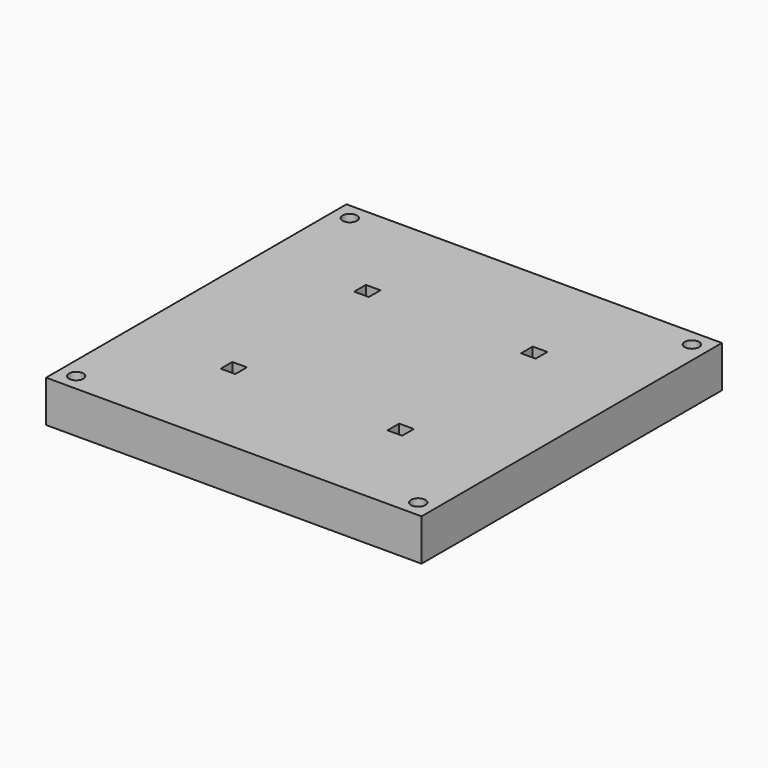
from build123d import *

# Parameters (mm, degrees)
F0_R     = 1.725
F0_W     = 3.5
F0_H     = 3.5
F1_DEPTH = 10


with BuildPart() as f1:
    # F0 (on Top) → F1 (new body)
    with BuildSketch(Plane.XY):
        Polygon((45, -45), (45, 0), (45, 45), (0, 45), (-45, 45), (-45, 0), (-45, -45), (0, -45), align=None)
        with Locations((-41, -41)):
            Circle(F0_R, mode=Mode.SUBTRACT)
        with Locations((-20, -20)):
            Rectangle(F0_W, F0_H, mode=Mode.SUBTRACT)
        with Locations((41, -41)):
            Circle(F0_R, mode=Mode.SUBTRACT)
        with Locations((20, -20)):
            Rectangle(F0_W, F0_H, mode=Mode.SUBTRACT)
        with Locations((-20, 20)):
            Rectangle(F0_W, F0_H, mode=Mode.SUBTRACT)
        with Locations((-41, 41)):
            Circle(F0_R, mode=Mode.SUBTRACT)
        with Locations((20, 20)):
            Rectangle(F0_W, F0_H, mode=Mode.SUBTRACT)
        with Locations((41, 41)):
            Circle(F0_R, mode=Mode.SUBTRACT)
    extrude(amount=F1_DEPTH)


solid = f1.part
